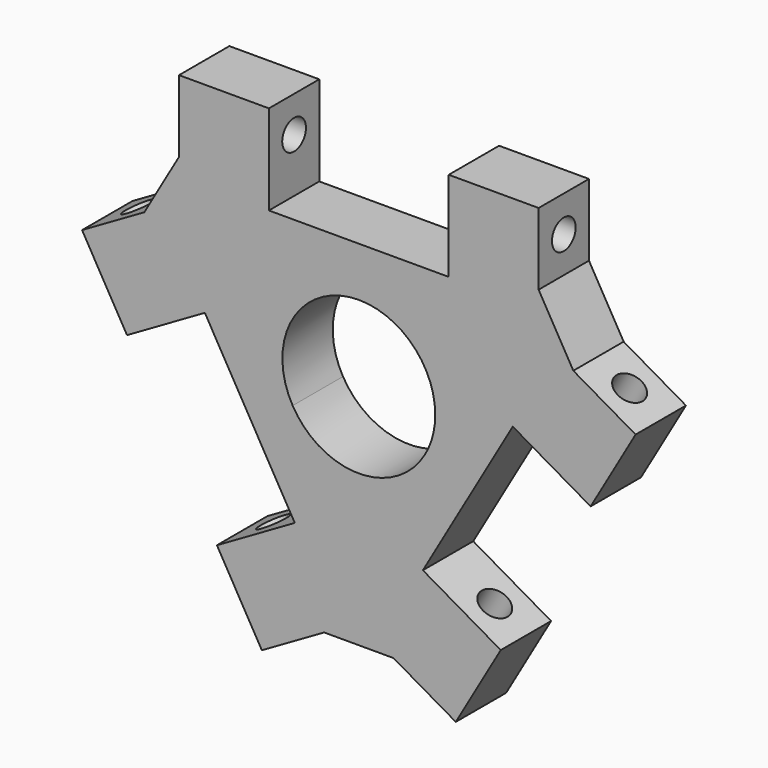
from build123d import *

# Parameters (mm, degrees)
F1_DEPTH = 7
F2_W     = 20
F2_H     = 10
F3_DEPTH = 7.001
F5_DEPTH = 7.001
F7_DEPTH = 7.001
F9_D     = 3.3
F11_D    = 3.3
F13_D    = 3.3


with BuildPart() as f1:
    # F0 (on Front) → F1 (new body)
    with BuildSketch(Plane.XZ):
        with BuildLine():
            ThreePointArc((-7.3612159322, -4.25), (-7.3612159322, 4.25), (0, 8.5))
            Line((0, 8.5), (0, 16))
            ThreePointArc((0, 16), (-13.8564064606, 8), (-13.8564064606, -8))
            Line((-13.8564064606, -8), (-7.3612159322, -4.25))
        make_face()
        Polygon((-20, 16), (0, 16), (20, 16), (20, 24), (-20, 24), align=None)
        with BuildLine():
            ThreePointArc((-13.8564064606, -8), (-13.8564064606, 8), (0, 16))
            Line((0, 16), (-20, 16))
            Line((-20, 16), (-23.8564064606, 9.3205080757))
            Line((-23.8564064606, 9.3205080757), (-13.8564064606, -8))
        make_face()
        Polygon((-3.8564064606, -25.3205080757), (-13.8564064606, -8), (-23.8564064606, 9.3205080757), (-30.7846096908, 5.3205080757), (-10.7846096908, -29.3205080757), align=None)
        with BuildLine():
            Line((13.8564064606, -8), (7.3612159322, -4.25))
            ThreePointArc((7.3612159322, -4.25), (0, -8.5), (-7.3612159322, -4.25))
            Line((-7.3612159322, -4.25), (-13.8564064606, -8))
            ThreePointArc((-13.8564064606, -8), (0, -16), (13.8564064606, -8))
        make_face()
        with BuildLine():
            Line((3.8564064606, -25.3205080757), (13.8564064606, -8))
            ThreePointArc((13.8564064606, -8), (0, -16), (-13.8564064606, -8))
            Line((-13.8564064606, -8), (-3.8564064606, -25.3205080757))
            Line((-3.8564064606, -25.3205080757), (3.8564064606, -25.3205080757))
        make_face()
        Polygon((23.8564064606, 9.3205080757), (13.8564064606, -8), (3.8564064606, -25.3205080757), (10.7846096908, -29.3205080757), (30.7846096908, 5.3205080757), align=None)
        with BuildLine():
            ThreePointArc((0, 8.5), (6.0104076401, 6.0104076401), (8.5, 0))
            ThreePointArc((8.5, 0), (8.2103695235, -2.1999618834), (7.3612159322, -4.25))
            Line((7.3612159322, -4.25), (13.8564064606, -8))
            ThreePointArc((13.8564064606, -8), (15.4548132206, -4.1411047216), (16, 0))
            ThreePointArc((16, 0), (11.313708499, 11.313708499), (0, 16))
            Line((0, 16), (0, 8.5))
        make_face()
        with BuildLine():
            Line((20, 16), (0, 16))
            ThreePointArc((0, 16), (11.313708499, 11.313708499), (16, 0))
            ThreePointArc((16, 0), (15.4548132206, -4.1411047216), (13.8564064606, -8))
            Line((13.8564064606, -8), (23.8564064606, 9.3205080757))
            Line((23.8564064606, 9.3205080757), (20, 16))
        make_face()
    extrude(amount=F1_DEPTH)

    # F2 (on face) → F3 (cut, through all)
    with BuildSketch(Plane.XZ.offset(7)):
        with Locations((0, 19)):
            Rectangle(F2_W, F2_H)
    extrude(amount=-F3_DEPTH, mode=Mode.SUBTRACT)

    # F4 (on face) → F5 (cut, through all)
    with BuildSketch(Plane.XZ.offset(7)):
        Polygon((7.124355653, -15.6602540378), (15.7846096908, -20.6602540378), (25.7846096908, -3.3397459622), (17.124355653, 1.6602540378), align=None)
    extrude(amount=-F5_DEPTH, mode=Mode.SUBTRACT)

    # F6 (on face) → F7 (cut, through all)
    with BuildSketch(Plane.XZ.offset(7)):
        Polygon((-15.7846096908, -20.6602540378), (-7.124355653, -15.6602540378), (-17.124355653, 1.6602540378), (-25.7846096908, -3.3397459622), align=None)
    extrude(amount=-F7_DEPTH, mode=Mode.SUBTRACT)

    # F9 (through all)
    with Locations(Plane(origin=(-20, 0, 0), x_dir=(0, -1, 0), z_dir=(-1, 0, 0))):
        with Locations((3.5, 20)):
            Hole(F9_D / 2)

    # F11 (through all)
    with Locations(Plane(origin=(10, 0, 17.3205080757), x_dir=(0.8660254038, 0, -0.5), z_dir=(0.5, 0, 0.8660254038))):
        with Locations((20, -3.5)):
            Hole(F11_D / 2)

    # F13 (through all)
    with Locations(Plane(origin=(10, 0, -17.3205080757), x_dir=(0.8660254038, 0, 0.5), z_dir=(0.5, 0, -0.8660254038))):
        with Locations((-20, 3.5)):
            Hole(F13_D / 2)


solid = f1.part
